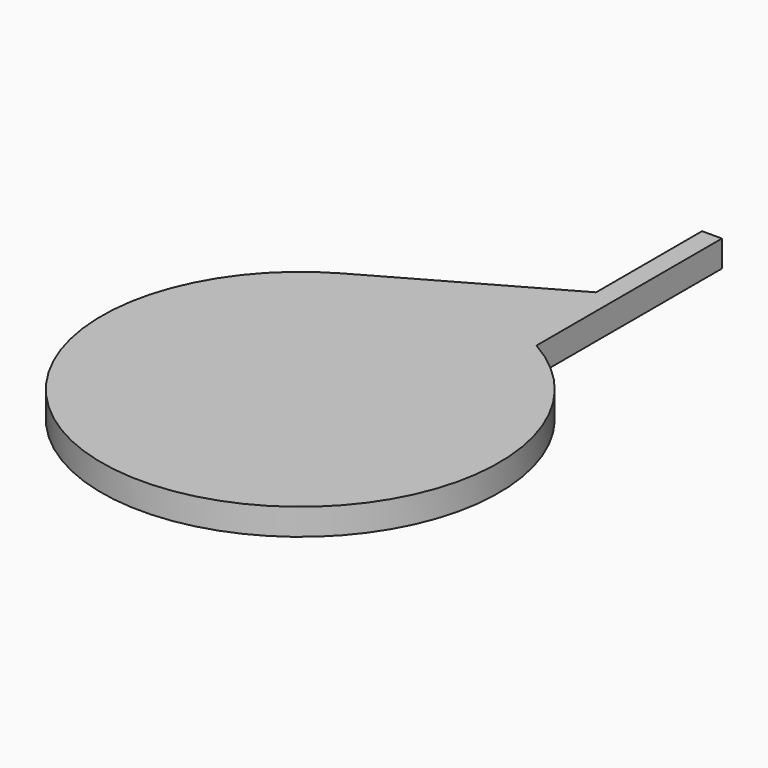
from build123d import *

# Parameters (mm, degrees)
PAD_DEPTH = 8


with BuildPart() as part:
    # Sketch → Pad (new body)
    with BuildSketch(Plane.XY):
        with BuildLine():
            ThreePointArc((-29.53026, 52.229912), (0, -60), (29.53026, 52.229912))
            Line((29.53026, 122.229912), (29.53026, 52.229912))
            Line((23.53026, 122.229912), (29.53026, 122.229912))
            Line((23.53026, 122.229912), (23.53026, 82.229912))
            Line((23.53026, 82.229912), (-29.53026, 52.229912))
        make_face()
    extrude(amount=PAD_DEPTH)


solid = part.part
